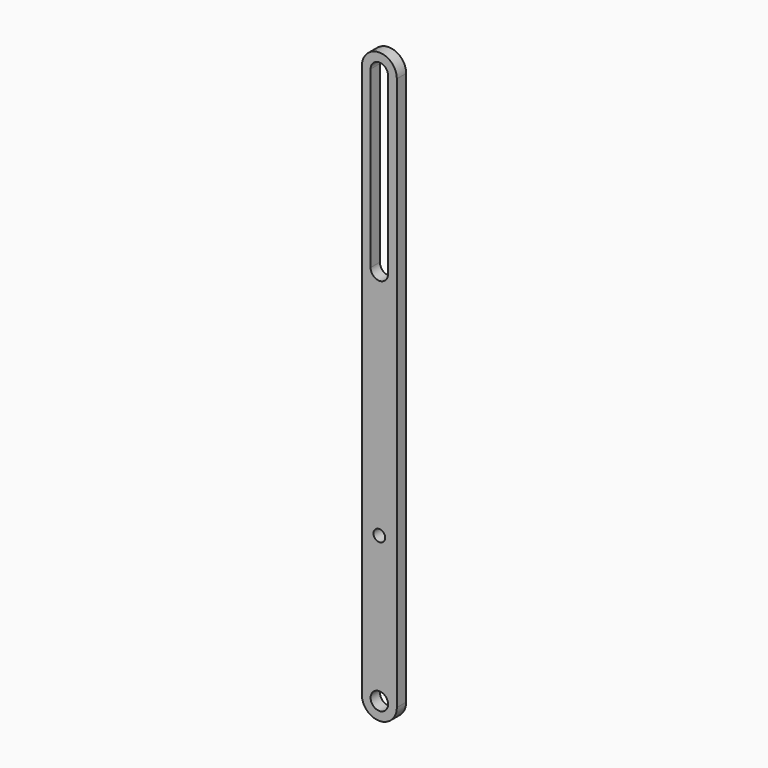
from build123d import *

# Parameters (mm, degrees)
F0_R     = 7.5
F0_R_2   = 5
F1_DEPTH = 10


with BuildPart() as f1:
    # F0 (on Front) → F1 (new body)
    with BuildSketch(Plane.XZ):
        with BuildLine():
            Line((-15, 475), (-15, 0))
            ThreePointArc((-15, 0), (0, -15), (15, 0))
            Line((15, 0), (15, 475))
            ThreePointArc((15, 475), (0, 490), (-15, 475))
        make_face()
        Circle(F0_R, mode=Mode.SUBTRACT)
        with Locations((0, 125)):
            Circle(F0_R_2, mode=Mode.SUBTRACT)
        with BuildLine():
            ThreePointArc((-7.5, 475), (0, 482.5), (7.5, 475))
            Line((7.5, 475), (7.5, 325))
            ThreePointArc((7.5, 325), (0, 317.5), (-7.5, 325))
            Line((-7.5, 325), (-7.5, 475))
        make_face(mode=Mode.SUBTRACT)
    extrude(amount=F1_DEPTH)


solid = f1.part
